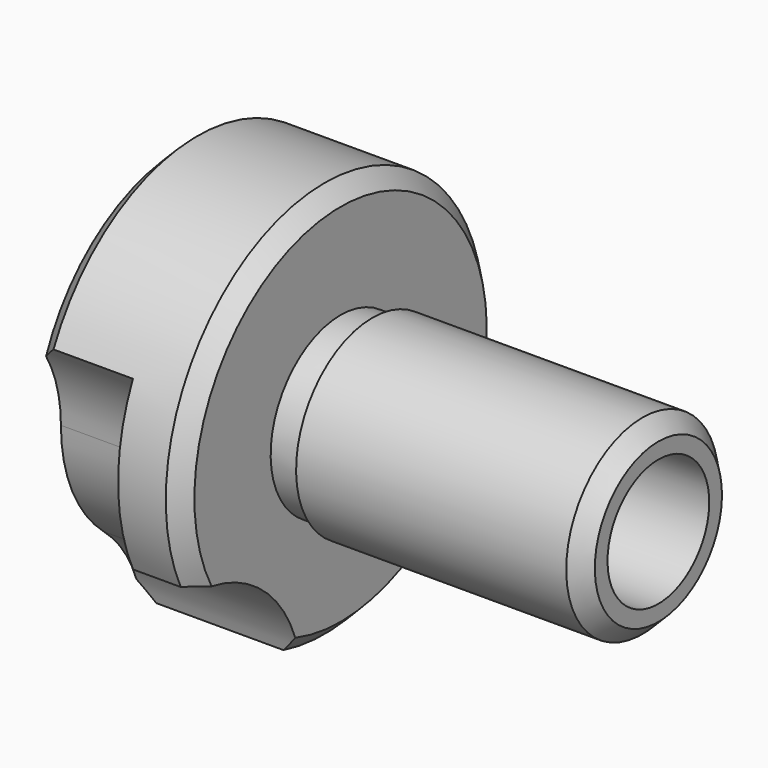
from build123d import *

# Parameters (mm, degrees)
F2_SIZE  = 1
F4_DEPTH = 10
F6_DEPTH = 6


with BuildPart() as f1:
    # F0 (on Front) → F1 (revolve)
    with BuildSketch(Plane.XZ):
        Polygon((0, 12.5), (0, 4), (30, 4), (30, 6), (12, 6), (12, 5.5), (10, 5.5), (10, 12.5), align=None)
    revolve(axis=Axis((7.8071541328, 0, 0), (1, 0, 0)))

    # F2
    f2_edges = [f1.edges().sort_by_distance(p)[0] for p in [
        (30, 0, -6),
        (10, 0, -12.5),
        (0, 0, -12.5),
    ]]
    chamfer(f2_edges, length=F2_SIZE)

    # F3 (on face) → F4 (cut)
    with BuildSketch(Plane(origin=(0, 0, 0), x_dir=(0, -1, 0), z_dir=(-1, 0, 0))):
        with BuildLine():
            ThreePointArc((3.2454993279, -12.0713186567), (8.0348451211, -9.575555539), (11.3243531583, -5.2923553873))
            ThreePointArc((11.3243531583, -5.2923553873), (6.106482292, -7.2774222096), (3.2454993279, -12.0713186567))
        make_face()
    extrude(amount=-F4_DEPTH, mode=Mode.SUBTRACT)

    # F5 (on face) → F6 (cut)
    with BuildSketch(Plane(origin=(0, 0, 0), x_dir=(0, -1, 0), z_dir=(-1, 0, 0))):
        with BuildLine():
            ThreePointArc((9.5, 0), (8.6099239768, -4.0148734865), (6.106482292, -7.2774222096))
            ThreePointArc((6.106482292, -7.2774222096), (8.003069241, -6.0735072132), (10.1488083402, -5.4084830844))
            ThreePointArc((10.1488083402, -5.4084830844), (10.7345609878, -5.3299734663), (11.3243531583, -5.2923553873))
            ThreePointArc((11.3243531583, -5.2923553873), (12.4999954848, -0.0106244522), (11.3333333333, 5.2730973399))
            ThreePointArc((11.3333333333, 5.2730973399), (9.9714052703, 2.7913557041), (9.5, 0))
        make_face()
    extrude(amount=-F6_DEPTH, mode=Mode.SUBTRACT)


solid = f1.part
